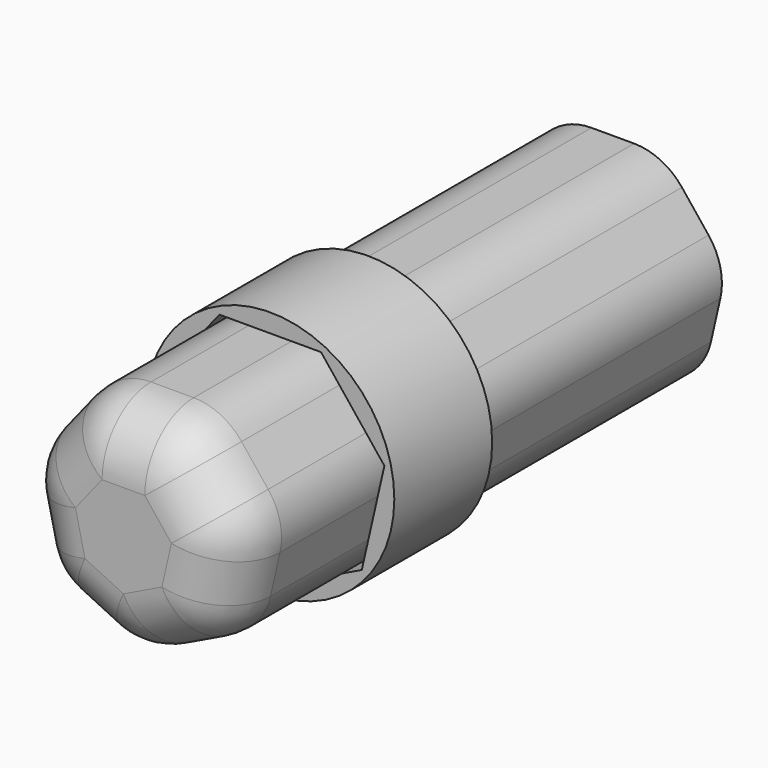
from build123d import *

# Parameters (mm, degrees)
F0_R     = 51.5249120955
F1_DEPTH = 25.4
F3_DEPTH = 127
F4_R     = 25.4


with BuildPart() as f1:
    # F0 (on Front) → F1 (new body, symmetric)
    with BuildSketch(Plane.XZ):
        Circle(F0_R)
        Polygon((-47.4069179748, 10.8203196687), (-21.0980633275, 43.8105799258), (21.0980633275, 43.8105799258), (47.4069179748, 10.8203196687), (38.0173964622, -30.3178619932), (0, -48.6260752025), (-38.0173964622, -30.3178619932), align=None, mode=Mode.SUBTRACT)
    extrude(amount=F1_DEPTH, both=True)


with BuildPart() as f3:
    # F2 (on face) → F3 (new body, symmetric)
    with BuildSketch(Plane(origin=(0, 25.4, 0), x_dir=(-1, 0, 0), z_dir=(0, 1, 0))):
        Polygon((21.0980633275, 43.8105799258), (-21.0980633275, 43.8105799258), (-47.4069179748, 10.8203196687), (-38.0173964622, -30.3178619932), (0, -48.6260752025), (38.0173964622, -30.3178619932), (47.4069179748, 10.8203196687), align=None)
    extrude(amount=F3_DEPTH, both=True)

    # F4
    f4_edges = [f3.edges().sort_by_distance(p)[0] for p in [
        (0, -101.6, 43.81058),
        (-34.252491, -101.6, 27.31545),
        (34.252491, -101.6, 27.31545),
        (42.712157, -101.6, -9.748771),
        (19.008698, -101.6, -39.471969),
        (-19.008698, -101.6, -39.471969),
        (-42.712157, -101.6, -9.748771),
        (47.406918, 25.4, 10.82032),
        (21.098063, 25.4, 43.81058),
        (-21.098063, 25.4, 43.81058),
        (-47.406918, 25.4, 10.82032),
        (-38.017396, 25.4, -30.317862),
        (38.017396, 25.4, -30.317862),
        (0, 25.4, -48.626075),
    ]]
    fillet(f4_edges, radius=F4_R)


solid = Compound([f1.part, f3.part])
